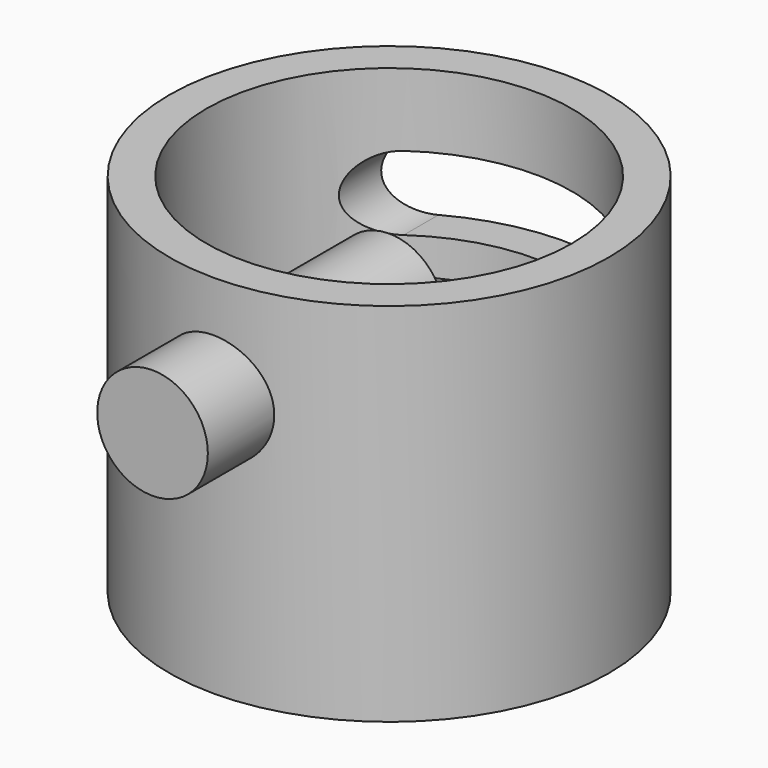
from build123d import *

# Parameters (mm, degrees)
F0_R     = 76.2734110289
F1_DEPTH = 127
F2_R     = 63.3841593345
F3_DEPTH = 63.5
F5_DEPTH = 127
F6_R     = 19.1908924799
F7_DEPTH = 102.616


with BuildPart() as f1:
    # F0 (on Top) → F1 (new body)
    with BuildSketch(Plane.XY):
        Circle(F0_R)
    extrude(amount=F1_DEPTH)

    # F2 (on face) → F3 (cut)
    with BuildSketch(Plane.XY.offset(127)):
        Circle(F2_R)
    extrude(amount=-F3_DEPTH, mode=Mode.SUBTRACT)

    # F4 (on Front) → F5 (cut)
    with BuildSketch(Plane.XZ):
        with BuildLine():
            ThreePointArc((-23.6000716686, 88.9091379941), (-27.3653091558, 79.819050587), (-36.4553965628, 76.0538130999))
            Line((-36.4553965628, 76.0538130999), (40.0476576165, 76.0538130999))
            ThreePointArc((40.0476576165, 76.0538130999), (28.1651377987, 88.9091379941), (40.0476576165, 101.7644628882))
            Line((40.0476576165, 101.7644628882), (-36.4553965628, 101.7644628882))
            ThreePointArc((-36.4553965628, 101.7644628882), (-27.3653091558, 97.9992254011), (-23.6000716686, 88.9091379941))
        make_face()
        with BuildLine():
            ThreePointArc((-36.4553965628, 101.7644628882), (-49.310721457, 88.9091379941), (-36.4553965628, 76.0538130999))
            Line((-36.4553965628, 76.0538130999), (-36.4553965628, 101.7644628882))
        make_face()
        with BuildLine():
            Line((-36.4553965628, 101.7644628882), (-36.4553965628, 76.0538130999))
            ThreePointArc((-36.4553965628, 76.0538130999), (-27.3653091558, 79.819050587), (-23.6000716686, 88.9091379941))
            ThreePointArc((-23.6000716686, 88.9091379941), (-27.3653091558, 97.9992254011), (-36.4553965628, 101.7644628882))
        make_face()
        with BuildLine():
            ThreePointArc((40.0476576165, 101.7644628882), (28.1651377987, 88.9091379941), (40.0476576165, 76.0538130999))
            Line((40.0476576165, 76.0538130999), (41.0602837801, 76.0538130999))
            Line((41.0602837801, 76.0538130999), (41.0602837801, 101.7644628882))
            Line((41.0602837801, 101.7644628882), (40.0476576165, 101.7644628882))
        make_face()
        with BuildLine():
            Line((41.0602837801, 76.0538130999), (40.0476576165, 76.0538130999))
            ThreePointArc((40.0476576165, 76.0538130999), (49.8131926588, 79.4396408562), (53.9554297615, 88.9091379941))
            ThreePointArc((53.9554297615, 88.9091379941), (49.8131926588, 98.3786351319), (40.0476576165, 101.7644628882))
            Line((40.0476576165, 101.7644628882), (41.0602837801, 101.7644628882))
            Line((41.0602837801, 101.7644628882), (41.0602837801, 76.0538130999))
        make_face()
    extrude(amount=-F5_DEPTH, mode=Mode.SUBTRACT)

    # F6 (on Front) → F7 (join)
    with BuildSketch(Plane.XZ):
        with Locations((0, 90.2522355318)):
            Circle(F6_R)
    extrude(amount=F7_DEPTH)


solid = f1.part
